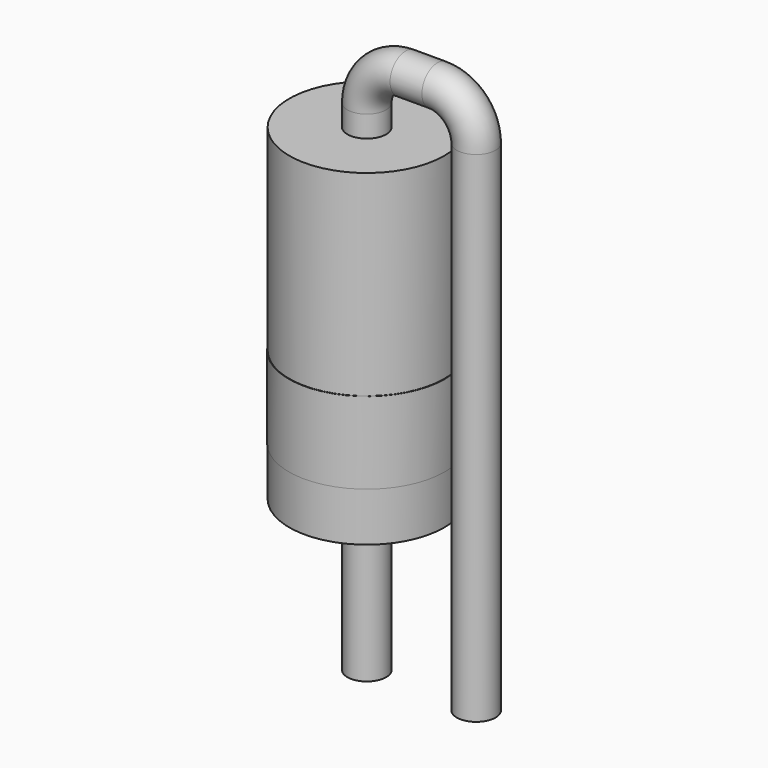
from build123d import *

# Parameters (mm, degrees)
SKETCH001_R = 0.45
SKETCH002_W = 1.8
SKETCH002_H = 7.6
SKETCH003_W = 1.81
SKETCH003_H = 1.9


with BuildPart() as sweep_body:
    # Sweep: sweep along a path in Sketch
    with BuildLine(Plane.XZ) as sweep_path:
        Line((0, -3), (0, 8.6))
        ThreePointArc((0, 8.6), (0.263604, 9.236396), (0.9, 9.5))
        Line((0.9, 9.5), (1.64, 9.5))
        ThreePointArc((1.64, 9.5), (2.276396, 9.236396), (2.54, 8.6))
        Line((2.54, 8.6), (2.54, -3))
    # Sketch001 → Sweep (sweep)
    with BuildSketch(Plane.XY):
        Circle(SKETCH001_R)
    sweep(path=sweep_path.line)


with BuildPart() as revolution:
    # Sketch002 → Revolution (revolve)
    with BuildSketch(Plane.XZ):
        with Locations((0.9, 4.3)):
            Rectangle(SKETCH002_W, SKETCH002_H)
    revolve(axis=Axis((0, 0, 0.5), (0, 0, 1)))


with BuildPart() as revolution001:
    # Sketch003 → Revolution001 (revolve)
    with BuildSketch(Plane.XZ):
        with Locations((0.905, 2.59)):
            Rectangle(SKETCH003_W, SKETCH003_H)
    revolve(axis=Axis((0, 0, 0), (0, 0, 1)))


solid = Compound([sweep_body.part, revolution.part, revolution001.part])
